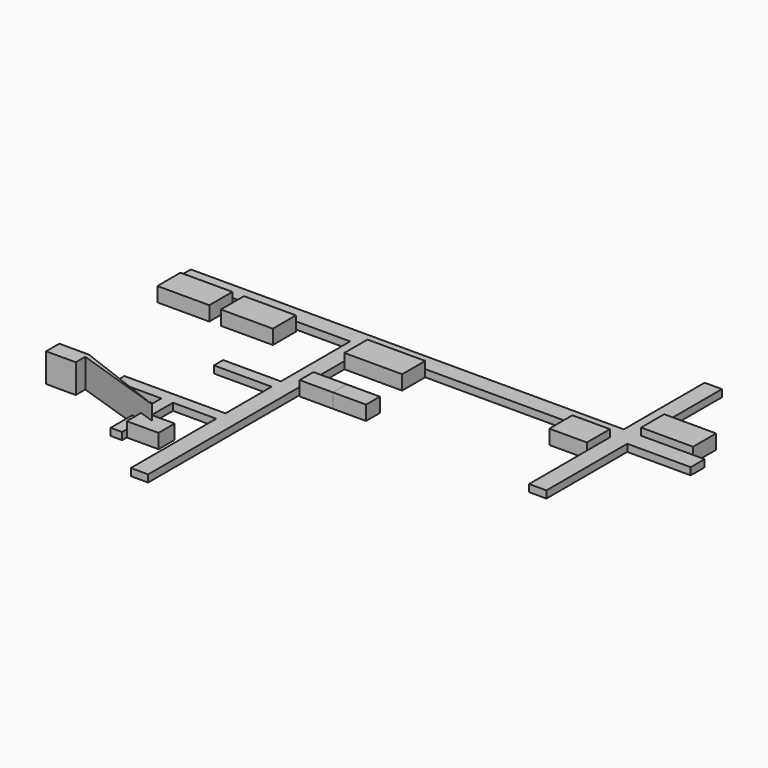
from build123d import *

# Parameters (mm, degrees)
F1_DEPTH = 25
F2_W     = 180
F2_H     = 100
F2_W_2   = 200
F2_W_3   = 115
F2_H_2   = 60
F2_W_4   = 130
F2_W_5   = 110
F2_H_3   = 70
F3_DEPTH = 50
F4_DEPTH = 50
F6_DEPTH = 100


with BuildPart() as f1:
    # F0 (on Top) → F1 (new body)
    with BuildSketch(Plane.XY):
        Polygon((1500, 0), (0, 0), (0, -60), (600, -60), (600, -360), (400, -360), (400, -400), (600, -400), (600, -600), (250, -600), (250, -640), (410, -640), (410, -860), (450, -860), (450, -640), (600, -640), (600, -1010), (660, -1010), (660, -60), (1500, -60), (1500, -410), (1560, -410), (1560, -60), (1780, -60), (1780, 0), (1560, 0), (1560, 350), (1500, 350), align=None)
    extrude(amount=F1_DEPTH)

    # F2 (on Top) → F3 (join)
    with BuildSketch(Plane.XY):
        with Locations((110, -120)):
            Rectangle(F2_W, F2_H)
        with Locations((330, -120)):
            Rectangle(F2_W, F2_H)
        with Locations((760, -110)):
            Rectangle(F2_W_2, F2_H)
        with Locations((722.5, -330)):
            Rectangle(F2_W_3, F2_H_2)
        with Locations((1435, -110)):
            Rectangle(F2_W_4, F2_H)
        with Locations((1650, 50)):
            Rectangle(F2_W, F2_H)
        with Locations((505, -805)):
            Rectangle(F2_W_5, F2_H_3)
    extrude(amount=F3_DEPTH)


with BuildPart() as f4:
    # F2 (on Top) → F4 (new body)
    with BuildSketch(Plane.XY):
        with Locations((837.5, -330)):
            Rectangle(F2_W_3, F2_H_2)
    extrude(amount=F4_DEPTH)


with BuildPart() as f6:
    # F5 (on Top) → F6 (new body)
    with BuildSketch(Plane.XY):
        Polygon((186.658114, -674.494982), (83.833493, -674.494982), (83.833493, -731.749654), (186.658114, -731.749654), (186.658114, -690.633244), (501.860559, -795.41868), align=None)
    extrude(amount=F6_DEPTH)


solid = Compound([f1.part, f4.part, f6.part])
